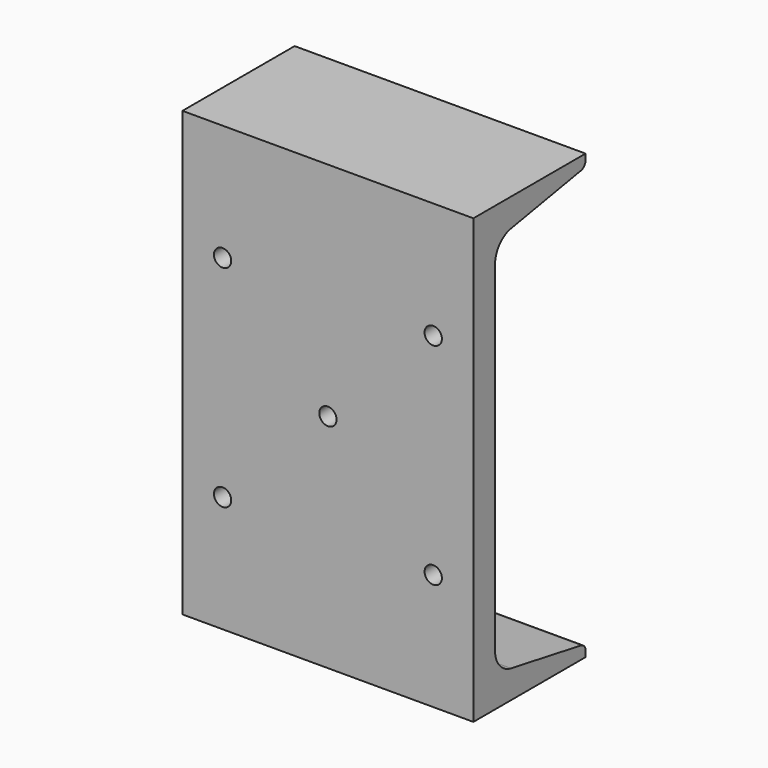
from build123d import *

# Parameters (mm, degrees)
F1_DEPTH = 66.675
F3_D     = 7.9375
F3_DEPTH = 17.4625
F3_TIP   = 2.3846655818


with BuildPart() as f1:
    # F0 (on Right) → F1 (new body, symmetric)
    with BuildSketch(Plane.YZ):
        with BuildLine():
            Line((64.262, 98.9344986), (64.262, 101.6))
            Line((64.262, 101.6), (0, 101.6))
            Line((0, 101.6), (0, -101.6))
            Line((0, -101.6), (64.262, -101.6))
            Line((64.262, -101.6), (64.262, -98.9344986))
            ThreePointArc((64.262, -98.9344986), (63.5188106002, -96.892602799), (61.6369890689, -95.8061329788))
            Line((61.6369890689, -95.8061329788), (21.559546439, -88.7394061564))
            ThreePointArc((21.559546439, -88.7394061564), (14.9715911581, -84.9358496182), (12.3698042993, -77.7875))
            Line((12.3698042993, -77.7875), (12.3698042993, 77.7875))
            ThreePointArc((12.3698042993, 77.7875), (14.9715911581, 84.9358496182), (21.559546439, 88.7394061564))
            Line((21.559546439, 88.7394061564), (61.6369890689, 95.8061329788))
            ThreePointArc((61.6369890689, 95.8061329788), (63.5188106002, 96.892602799), (64.262, 98.9344986))
        make_face()
    extrude(amount=F1_DEPTH, both=True)

    # F3
    with Locations(Plane.XZ):
        with Locations((-48.2688766507, 48.2688766507), (48.2688766507, 48.2688766507), (48.2688766507, -48.2688766507), (-48.2688766507, -48.2688766507), (0, 0)):
            Hole(F3_D / 2, depth=F3_DEPTH)
            with Locations((0, 0, -(F3_DEPTH + F3_TIP / 2))):  # 118° drill point
                Cone(0, F3_D / 2, F3_TIP, mode=Mode.SUBTRACT)


solid = f1.part
